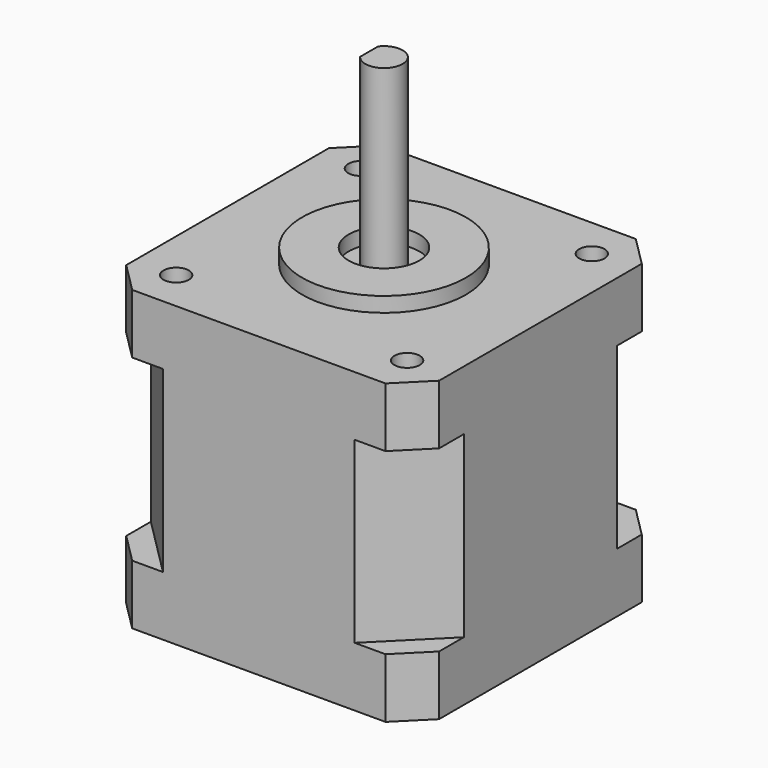
from build123d import *

# Parameters (mm, degrees)
SKETCH_W      = 42
SKETCH_H      = 42
PAD_DEPTH     = 40
CHAMFER_SIZE  = 4
SKETCH001_W   = 44
SKETCH001_H   = 44
POCKET_DEPTH  = 32
PAD001_DEPTH  = 8
SKETCH003_R   = 11
SKETCH003_R_2 = 4.75
PAD002_DEPTH  = 2
PAD003_DEPTH  = 24.5
SKETCH005_R   = 1.7
HOLE_DEPTH    = 4.5
HOLE_TIPS_R   = 1.7


with BuildPart() as part:
    # Sketch → Pad (new body)
    with BuildSketch(Plane.XY):
        Rectangle(SKETCH_W, SKETCH_H)
    extrude(amount=PAD_DEPTH)

    # Chamfer
    chamfer_edges = [part.edges().sort_by_distance(p)[0] for p in [
        (21, -21, 20),
        (-21, -21, 20),
        (21, 21, 20),
        (-21, 21, 20),
    ]]
    chamfer(chamfer_edges, length=CHAMFER_SIZE)

    # Sketch001 (on Face5 of Chamfer) → Pocket (cut)
    with BuildSketch(Plane.XY.offset(40)):
        Rectangle(SKETCH001_W, SKETCH001_H)
        Polygon((-21, -12.868272), (-12.868272, -21), (12.868272, -21), (21, -12.868272), (21, 12.868272), (12.868272, 21), (-12.868272, 21), (-21, 12.868272), align=None, mode=Mode.SUBTRACT)
    extrude(amount=-POCKET_DEPTH, mode=Mode.SUBTRACT)

    # Sketch002 (on Face9 of Pocket) → Pad001 (join)
    with BuildSketch(Plane.XY.offset(40)):
        Polygon((-17, 21), (17, 21), (21, 17), (21, -17), (17, -21), (-17, -21), (-21, -17), (-21, 17), align=None)
    extrude(amount=-PAD001_DEPTH)

    # Sketch003 (on Face26 of Pad001) → Pad002 (join)
    with BuildSketch(Plane.XY.offset(40)):
        Circle(SKETCH003_R)
        Circle(SKETCH003_R_2, mode=Mode.SUBTRACT)
    extrude(amount=PAD002_DEPTH)

    # Sketch004 (on Face14 of Pad002) → Pad003 (join)
    with BuildSketch(Plane.XY.offset(40)):
        with BuildLine():
            ThreePointArc((-2, -1.5), (2.5, 0), (-2, 1.5))
            Line((-2, 1.5), (-2, -1.5))
        make_face()
    extrude(amount=PAD003_DEPTH)

    # Sketch005 (on Face14 of Pad003) → Hole (cut)
    with BuildSketch(Plane.XY.offset(40)):
        with Locations((-15.5, 15.5)):
            Circle(SKETCH005_R)
        with Locations((15.5, 15.5)):
            Circle(SKETCH005_R)
        with Locations((15.5, -15.5)):
            Circle(SKETCH005_R)
        with Locations((-15.5, -15.5)):
            Circle(SKETCH005_R)
    extrude(amount=-HOLE_DEPTH, mode=Mode.SUBTRACT)

    # Hole tips → Hole tip 1 section 0
    with BuildSketch(Plane.XY.offset(35.5), mode=Mode.PRIVATE) as hole_tip_1_s0:
        with Locations((-15.5, 15.5)):
            Circle(HOLE_TIPS_R)
    loft([hole_tip_1_s0.sketch, Vertex(-15.5, 15.5, 34.478537)], mode=Mode.SUBTRACT)

    # Hole tips → Hole tip 2 section 0
    with BuildSketch(Plane.XY.offset(35.5), mode=Mode.PRIVATE) as hole_tip_2_s0:
        with Locations((15.5, 15.5)):
            Circle(HOLE_TIPS_R)
    loft([hole_tip_2_s0.sketch, Vertex(15.5, 15.5, 34.478537)], mode=Mode.SUBTRACT)

    # Hole tips → Hole tip 3 section 0
    with BuildSketch(Plane.XY.offset(35.5), mode=Mode.PRIVATE) as hole_tip_3_s0:
        with Locations((15.5, -15.5)):
            Circle(HOLE_TIPS_R)
    loft([hole_tip_3_s0.sketch, Vertex(15.5, -15.5, 34.478537)], mode=Mode.SUBTRACT)

    # Hole tips → Hole tip 4 section 0
    with BuildSketch(Plane.XY.offset(35.5), mode=Mode.PRIVATE) as hole_tip_4_s0:
        with Locations((-15.5, -15.5)):
            Circle(HOLE_TIPS_R)
    loft([hole_tip_4_s0.sketch, Vertex(-15.5, -15.5, 34.478537)], mode=Mode.SUBTRACT)


solid = part.part
